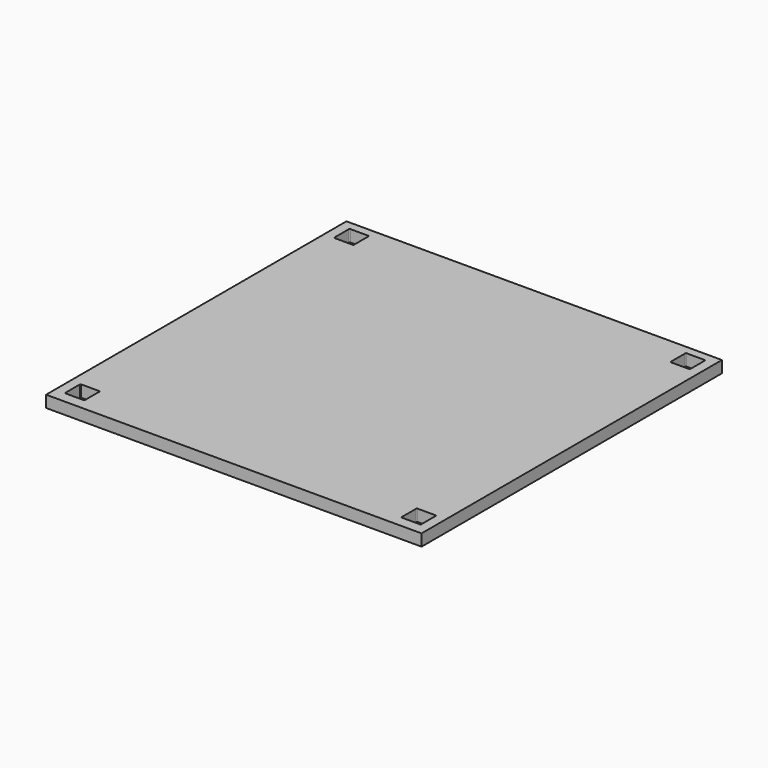
from build123d import *

# Parameters (mm, degrees)
F0_W     = 152.4
F0_H     = 152.4
F1_DEPTH = 4.7625


with BuildPart() as f1:
    # F0 (on Top) → F1 (new body)
    with BuildSketch(Plane.XY):
        with Locations((76.2, 76.2)):
            Rectangle(F0_W, F0_H)
        with BuildLine():
            Line((3.96875, 4.84862), (3.96875, 12.15112))
            ThreePointArc((3.96875, 12.15112), (4.061744, 12.375626), (4.28625, 12.46862))
            Line((4.28625, 12.46862), (11.58875, 12.46862))
            ThreePointArc((11.58875, 12.46862), (11.813256, 12.375626), (11.90625, 12.15112))
            Line((11.90625, 12.15112), (11.90625, 4.84862))
            ThreePointArc((11.90625, 4.84862), (11.813256, 4.624113), (11.58875, 4.53112))
            Line((11.58875, 4.53112), (4.28625, 4.53112))
            ThreePointArc((4.28625, 4.53112), (4.061744, 4.624113), (3.96875, 4.84862))
        make_face(mode=Mode.SUBTRACT)
        with BuildLine():
            ThreePointArc((140.49375, 12.15112), (140.586744, 12.375626), (140.81125, 12.46862))
            Line((140.81125, 12.46862), (148.11375, 12.46862))
            ThreePointArc((148.11375, 12.46862), (148.338256, 12.375626), (148.43125, 12.15112))
            Line((148.43125, 12.15112), (148.43125, 4.84862))
            ThreePointArc((148.43125, 4.84862), (148.338256, 4.624113), (148.11375, 4.53112))
            Line((148.11375, 4.53112), (140.81125, 4.53112))
            ThreePointArc((140.81125, 4.53112), (140.586744, 4.624113), (140.49375, 4.84862))
            Line((140.49375, 4.84862), (140.49375, 12.15112))
        make_face(mode=Mode.SUBTRACT)
        with BuildLine():
            ThreePointArc((3.96875, 148.67612), (4.061744, 148.900626), (4.28625, 148.99362))
            Line((4.28625, 148.99362), (11.58875, 148.99362))
            ThreePointArc((11.58875, 148.99362), (11.813256, 148.900626), (11.90625, 148.67612))
            Line((11.90625, 148.67612), (11.90625, 141.37362))
            ThreePointArc((11.90625, 141.37362), (11.813256, 141.149113), (11.58875, 141.05612))
            Line((11.58875, 141.05612), (4.28625, 141.05612))
            ThreePointArc((4.28625, 141.05612), (4.061744, 141.149113), (3.96875, 141.37362))
            Line((3.96875, 141.37362), (3.96875, 148.67612))
        make_face(mode=Mode.SUBTRACT)
        with BuildLine():
            ThreePointArc((140.49375, 148.67612), (140.586744, 148.900626), (140.81125, 148.99362))
            Line((140.81125, 148.99362), (148.11375, 148.99362))
            ThreePointArc((148.11375, 148.99362), (148.338256, 148.900626), (148.43125, 148.67612))
            Line((148.43125, 148.67612), (148.43125, 141.37362))
            ThreePointArc((148.43125, 141.37362), (148.338256, 141.149113), (148.11375, 141.05612))
            Line((148.11375, 141.05612), (140.81125, 141.05612))
            ThreePointArc((140.81125, 141.05612), (140.586744, 141.149113), (140.49375, 141.37362))
            Line((140.49375, 141.37362), (140.49375, 148.67612))
        make_face(mode=Mode.SUBTRACT)
    extrude(amount=F1_DEPTH)


solid = f1.part
